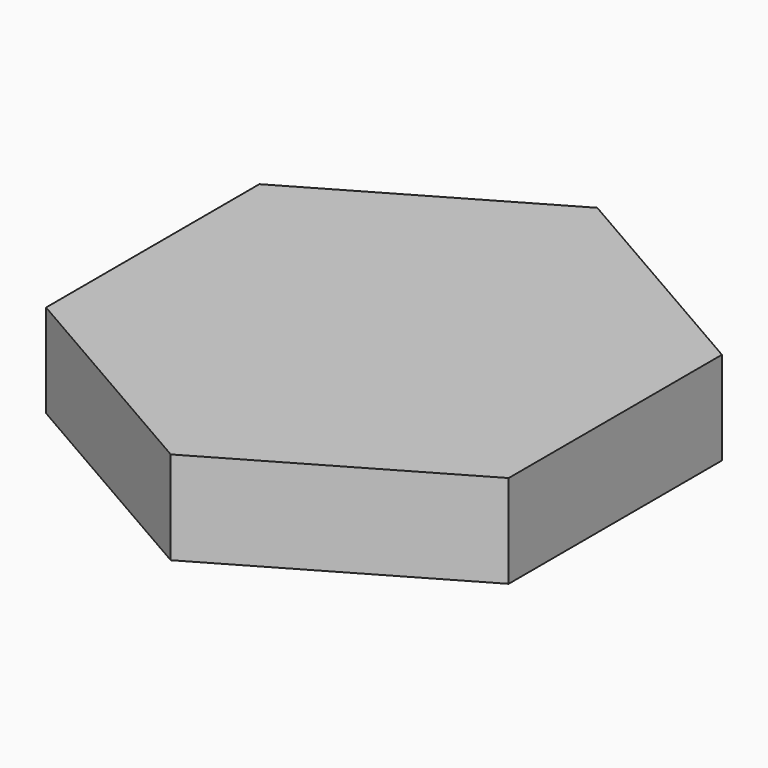
from build123d import *

# Parameters (mm, degrees)
F3_DEPTH = 8
F0_R     = 5.1
F4_DEPTH = 25.4
F5_DEPTH = 25.4


with BuildPart() as f3:
    # F2 (on face) → F3 (new body)
    with BuildSketch(Plane.XY):
        Polygon((0.021091, -22.923663), (19.86302, -11.443566), (19.841929, 11.480097), (-0.021091, 22.923663), (-19.86302, 11.443566), (-19.841929, -11.480097), align=None)
    extrude(amount=F3_DEPTH)

    # F0 (on Top) → F4 (cut)
    with BuildSketch(Plane.XY):
        Circle(F0_R)
    extrude(amount=-F4_DEPTH, mode=Mode.SUBTRACT)

    # F0 (on Top) → F5 (cut)
    with BuildSketch(Plane.XY):
        Circle(F0_R)
    extrude(amount=-F5_DEPTH, mode=Mode.SUBTRACT)


solid = f3.part
